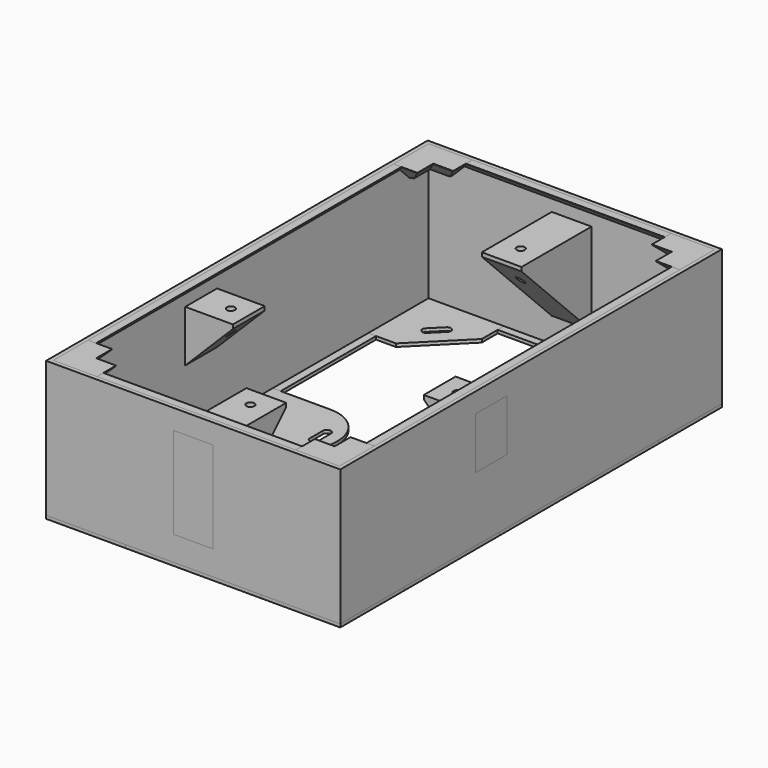
from build123d import *

# Parameters (mm, degrees)
BOX001_W                   = 72
BOX001_H                   = 118
BOX001_DEPTH               = 35
BOX_W                      = 74
BOX_H                      = 120
BOX_DEPTH                  = 35
BOX015_W                   = 68
BOX015_H                   = 114
BOX015_DEPTH               = 0.8
BOX014_W                   = 74
BOX014_H                   = 120
BOX014_DEPTH               = 0.8
BOX031_W                   = 2
BOX031_H                   = 118
BOX031_DEPTH               = 2
CHAMFER008_SIZE            = 1.9
BOX030_W                   = 72
BOX030_H                   = 2
BOX030_DEPTH               = 2
CHAMFER009_SIZE            = 1.9
BOX029_W                   = 2
BOX029_H                   = 118
BOX029_DEPTH               = 2
CHAMFER010_SIZE            = 1.9
BOX028_W                   = 72
BOX028_H                   = 2
BOX028_DEPTH               = 2
CHAMFER011_SIZE            = 1.9
BOX024_W                   = 5
BOX024_H                   = 5
BOX024_DEPTH               = 5
BOX025_W                   = 11
BOX025_H                   = 11
BOX025_DEPTH               = 5
CHAMFER004_SIZE            = 4.9
CHAMFER013_SIZE            = 0.9
BOX033_W                   = 5
BOX033_H                   = 5
BOX033_DEPTH               = 5
BOX032_W                   = 11
BOX032_H                   = 11
BOX032_DEPTH               = 5
CHAMFER012_SIZE            = 4.9
CHAMFER012_PLACEMENT_ANGLE = 90
CHAMFER014_SIZE            = 0.9
BOX034_W                   = 5
BOX034_H                   = 5
BOX034_DEPTH               = 5
BOX035_W                   = 11
BOX035_H                   = 11
BOX035_DEPTH               = 5
CHAMFER015_SIZE            = 4.9
CHAMFER016_SIZE            = 0.9
CHAMFER016_PLACEMENT_ANGLE = 180
BOX036_W                   = 5
BOX036_H                   = 5
BOX036_DEPTH               = 5
BOX037_W                   = 11
BOX037_H                   = 11
BOX037_DEPTH               = 5
CHAMFER017_SIZE            = 4.9
CHAMFER018_SIZE            = 0.9
CHAMFER018_PLACEMENT_ANGLE = -90
CYLINDER_R                 = 1
CYLINDER_DEPTH             = 40
BOX040_W                   = 10
BOX040_H                   = 23
BOX040_DEPTH               = 23
CHAMFER019_SIZE            = 22
CYLINDER003_R              = 1
CYLINDER003_DEPTH          = 40
BOX039_W                   = 13
BOX039_H                   = 10
BOX039_DEPTH               = 13
CHAMFER022_SIZE            = 12
CYLINDER002_R              = 1
CYLINDER002_DEPTH          = 40
BOX038_W                   = 13
BOX038_H                   = 10
BOX038_DEPTH               = 13
CHAMFER021_SIZE            = 12
CYLINDER001_R              = 1
CYLINDER001_DEPTH          = 40
BOX041_W                   = 10
BOX041_H                   = 23
BOX041_DEPTH               = 23
CHAMFER020_SIZE            = 22
BOX043_W                   = 2
BOX043_H                   = 6
BOX043_DEPTH               = 10
FILLET002_R                = 0.9
BOX042_W                   = 25
BOX042_H                   = 20
BOX042_DEPTH               = 0.8
FILLET_R                   = 9.5
BOX045_W                   = 6
BOX045_H                   = 2
BOX045_DEPTH               = 10
FILLET003_R                = 0.9
BOX044_W                   = 25
BOX044_H                   = 20
BOX044_DEPTH               = 0.8
FILLET001_R                = 9.5
FILLET001_PLACEMENT_ANGLE  = 180
BOX049_W                   = 2
BOX049_H                   = 6
BOX049_DEPTH               = 10
FILLET007_R                = 0.9
FILLET007_PLACEMENT_ANGLE  = 135
BOX019_W                   = 20
BOX019_H                   = 20
BOX019_DEPTH               = 0.8
CHAMFER_SIZE               = 12
BOX046_W                   = 2
BOX046_H                   = 6
BOX046_DEPTH               = 10
FILLET004_R                = 0.9
FILLET004_PLACEMENT_ANGLE  = 45
BOX018_W                   = 20
BOX018_H                   = 20
BOX018_DEPTH               = 0.8
CHAMFER001_SIZE            = 12
BOX047_W                   = 2
BOX047_H                   = 6
BOX047_DEPTH               = 10
FILLET005_R                = 0.9
FILLET005_PLACEMENT_ANGLE  = 45
BOX016_W                   = 20
BOX016_H                   = 20
BOX016_DEPTH               = 0.8
CHAMFER003_SIZE            = 12
BOX048_W                   = 2
BOX048_H                   = 6
BOX048_DEPTH               = 10
FILLET006_R                = 0.9
FILLET006_PLACEMENT_ANGLE  = 135
BOX017_W                   = 20
BOX017_H                   = 20
BOX017_DEPTH               = 0.8
CHAMFER002_SIZE            = 12


with BuildPart() as obj1:
    # Box001 → Box001 (new body)
    with BuildSketch(Plane(origin=(1, 1, 0), x_dir=(1, 0, 0), z_dir=(0, 0, 1))):
        with Locations((36, 59)):
            Rectangle(BOX001_W, BOX001_H)
    extrude(amount=BOX001_DEPTH)


with BuildPart() as cut:
    # Box → Box (new body)
    with BuildSketch(Plane.XY):
        with Locations((37, 60)):
            Rectangle(BOX_W, BOX_H)
    extrude(amount=BOX_DEPTH)

    # Cut: cut obj1
    add(obj1.part, mode=Mode.SUBTRACT)


with BuildPart() as basis002:
    # Box015 → Box015 (new body)
    with BuildSketch(Plane(origin=(3, 3, 0), x_dir=(1, 0, 0), z_dir=(0, 0, 1))):
        with Locations((34, 57)):
            Rectangle(BOX015_W, BOX015_H)
    extrude(amount=BOX015_DEPTH)


with BuildPart() as cut009:
    # Box014 → Box014 (new body)
    with BuildSketch(Plane.XY):
        with Locations((37, 60)):
            Rectangle(BOX014_W, BOX014_H)
    extrude(amount=BOX014_DEPTH)

    # Cut009: cut Basis002
    add(basis002.part, mode=Mode.SUBTRACT)


with BuildPart() as chamfer008:
    # Box031 → Box031 (new body)
    with BuildSketch(Plane(origin=(71, 1, 33), x_dir=(1, 0, 0), z_dir=(0, 0, 1))):
        with Locations((1, 59)):
            Rectangle(BOX031_W, BOX031_H)
    extrude(amount=BOX031_DEPTH)

    # Chamfer008
    chamfer008_edges = [chamfer008.edges().sort_by_distance(p)[0] for p in [
        (71, 60, 33),
    ]]
    chamfer(chamfer008_edges, length=CHAMFER008_SIZE)


with BuildPart() as chamfer009:
    # Box030 → Box030 (new body)
    with BuildSketch(Plane(origin=(1, 117, 33), x_dir=(1, 0, 0), z_dir=(0, 0, 1))):
        with Locations((36, 1)):
            Rectangle(BOX030_W, BOX030_H)
    extrude(amount=BOX030_DEPTH)

    # Chamfer009
    chamfer009_edges = [chamfer009.edges().sort_by_distance(p)[0] for p in [
        (37, 117, 33),
    ]]
    chamfer(chamfer009_edges, length=CHAMFER009_SIZE)


with BuildPart() as chamfer010:
    # Box029 → Box029 (new body)
    with BuildSketch(Plane(origin=(1, 1, 33), x_dir=(1, 0, 0), z_dir=(0, 0, 1))):
        with Locations((1, 59)):
            Rectangle(BOX029_W, BOX029_H)
    extrude(amount=BOX029_DEPTH)

    # Chamfer010
    chamfer010_edges = [chamfer010.edges().sort_by_distance(p)[0] for p in [
        (3, 60, 33),
    ]]
    chamfer(chamfer010_edges, length=CHAMFER010_SIZE)


with BuildPart() as chamfer011:
    # Box028 → Box028 (new body)
    with BuildSketch(Plane(origin=(1, 1, 33), x_dir=(1, 0, 0), z_dir=(0, 0, 1))):
        with Locations((36, 1)):
            Rectangle(BOX028_W, BOX028_H)
    extrude(amount=BOX028_DEPTH)

    # Chamfer011
    chamfer011_edges = [chamfer011.edges().sort_by_distance(p)[0] for p in [
        (37, 3, 33),
    ]]
    chamfer(chamfer011_edges, length=CHAMFER011_SIZE)


with BuildPart() as cube019:
    # Box024 → Box024 (new body)
    with BuildSketch(Plane(origin=(63, 109, 30), x_dir=(1, 0, 0), z_dir=(0, 0, 1))):
        with Locations((2.5, 2.5)):
            Rectangle(BOX024_W, BOX024_H)
    extrude(amount=BOX024_DEPTH)


with BuildPart() as chamfer013:
    # Box025 → Box025 (new body)
    with BuildSketch(Plane(origin=(63, 109, 30), x_dir=(1, 0, 0), z_dir=(0, 0, 1))):
        with Locations((5.5, 5.5)):
            Rectangle(BOX025_W, BOX025_H)
    extrude(amount=BOX025_DEPTH)

    # Cut012: cut Cube019
    add(cube019.part, mode=Mode.SUBTRACT)

    # Chamfer004
    chamfer004_edges = [chamfer013.edges().sort_by_distance(p)[0] for p in [
        (63, 117, 30),
        (65.5, 114, 30),
        (71, 109, 30),
        (68, 111.5, 30),
    ]]
    chamfer(chamfer004_edges, length=CHAMFER004_SIZE)


with BuildPart() as chamfer013_1:
    # Chamfer004 placement: moved
    add(chamfer013.part.moved(Location((-1, -1, 0))))

    # Chamfer013
    chamfer013_edges = [chamfer013_1.edges().sort_by_distance(p)[0] for p in [
        (69.4, 117.9, 30),
        (71.9, 115.4, 30),
    ]]
    chamfer(chamfer013_edges, length=CHAMFER013_SIZE)


with BuildPart() as cube028:
    # Box033 → Box033 (new body)
    with BuildSketch(Plane(origin=(63, 109, 30), x_dir=(1, 0, 0), z_dir=(0, 0, 1))):
        with Locations((2.5, 2.5)):
            Rectangle(BOX033_W, BOX033_H)
    extrude(amount=BOX033_DEPTH)


with BuildPart() as chamfer014:
    # Box032 → Box032 (new body)
    with BuildSketch(Plane(origin=(63, 109, 30), x_dir=(1, 0, 0), z_dir=(0, 0, 1))):
        with Locations((5.5, 5.5)):
            Rectangle(BOX032_W, BOX032_H)
    extrude(amount=BOX032_DEPTH)

    # Cut013: cut Cube028
    add(cube028.part, mode=Mode.SUBTRACT)

    # Chamfer012
    chamfer012_edges = [chamfer014.edges().sort_by_distance(p)[0] for p in [
        (63, 117, 30),
        (65.5, 114, 30),
        (71, 109, 30),
        (68, 111.5, 30),
    ]]
    chamfer(chamfer012_edges, length=CHAMFER012_SIZE)


with BuildPart() as chamfer014_1:
    # Chamfer012 placement: moved
    add(chamfer014.part.moved(Location((121, 45, 0))).rotate(Axis((121, 45, 0), (0, 0, 1)), CHAMFER012_PLACEMENT_ANGLE))

    # Chamfer014
    chamfer014_edges = [chamfer014_1.edges().sort_by_distance(p)[0] for p in [
        (2.1, 115.4, 30),
        (4.6, 117.9, 30),
    ]]
    chamfer(chamfer014_edges, length=CHAMFER014_SIZE)


with BuildPart() as cube029:
    # Box034 → Box034 (new body)
    with BuildSketch(Plane(origin=(63, 109, 30), x_dir=(1, 0, 0), z_dir=(0, 0, 1))):
        with Locations((2.5, 2.5)):
            Rectangle(BOX034_W, BOX034_H)
    extrude(amount=BOX034_DEPTH)


with BuildPart() as chamfer016:
    # Box035 → Box035 (new body)
    with BuildSketch(Plane(origin=(63, 109, 30), x_dir=(1, 0, 0), z_dir=(0, 0, 1))):
        with Locations((5.5, 5.5)):
            Rectangle(BOX035_W, BOX035_H)
    extrude(amount=BOX035_DEPTH)

    # Cut014: cut Cube029
    add(cube029.part, mode=Mode.SUBTRACT)

    # Chamfer015
    chamfer015_edges = [chamfer016.edges().sort_by_distance(p)[0] for p in [
        (63, 117, 30),
        (65.5, 114, 30),
        (71, 109, 30),
        (68, 111.5, 30),
    ]]
    chamfer(chamfer015_edges, length=CHAMFER015_SIZE)


with BuildPart() as chamfer016_1:
    # Chamfer015 placement: moved
    add(chamfer016.part.moved(Location((-1, -1, 0))))

    # Chamfer016
    chamfer016_edges = [chamfer016_1.edges().sort_by_distance(p)[0] for p in [
        (69.4, 117.9, 30),
        (71.9, 115.4, 30),
    ]]
    chamfer(chamfer016_edges, length=CHAMFER016_SIZE)


with BuildPart() as chamfer016_2:
    # Chamfer016 placement: moved
    add(chamfer016_1.part.moved(Location((74, 120, 0))).rotate(Axis((74, 120, 0), (0, 0, 1)), CHAMFER016_PLACEMENT_ANGLE))


with BuildPart() as cube031:
    # Box036 → Box036 (new body)
    with BuildSketch(Plane(origin=(63, 109, 30), x_dir=(1, 0, 0), z_dir=(0, 0, 1))):
        with Locations((2.5, 2.5)):
            Rectangle(BOX036_W, BOX036_H)
    extrude(amount=BOX036_DEPTH)


with BuildPart() as chamfer018:
    # Box037 → Box037 (new body)
    with BuildSketch(Plane(origin=(63, 109, 30), x_dir=(1, 0, 0), z_dir=(0, 0, 1))):
        with Locations((5.5, 5.5)):
            Rectangle(BOX037_W, BOX037_H)
    extrude(amount=BOX037_DEPTH)

    # Cut015: cut Cube031
    add(cube031.part, mode=Mode.SUBTRACT)

    # Chamfer017
    chamfer017_edges = [chamfer018.edges().sort_by_distance(p)[0] for p in [
        (63, 117, 30),
        (65.5, 114, 30),
        (71, 109, 30),
        (68, 111.5, 30),
    ]]
    chamfer(chamfer017_edges, length=CHAMFER017_SIZE)


with BuildPart() as chamfer018_1:
    # Chamfer017 placement: moved
    add(chamfer018.part.moved(Location((-1, -1, 0))))

    # Chamfer018
    chamfer018_edges = [chamfer018_1.edges().sort_by_distance(p)[0] for p in [
        (69.4, 117.9, 30),
        (71.9, 115.4, 30),
    ]]
    chamfer(chamfer018_edges, length=CHAMFER018_SIZE)


with BuildPart() as chamfer018_2:
    # Chamfer018 placement: moved
    add(chamfer018_1.part.moved(Location((-46, 74, 0))).rotate(Axis((-46, 74, 0), (0, 0, 1)), CHAMFER018_PLACEMENT_ANGLE))


with BuildPart() as cylinder:
    # Cylinder → Cylinder (new body)
    with BuildSketch(Plane(origin=(37, 18, 0), x_dir=(1, 0, 0), z_dir=(0, 0, 1))):
        Circle(CYLINDER_R)
    extrude(amount=CYLINDER_DEPTH)


with BuildPart() as cut016:
    # Box040 → Box040 (new body)
    with BuildSketch(Plane(origin=(32, 0, 7), x_dir=(1, 0, 0), z_dir=(0, 0, 1))):
        with Locations((5, 11.5)):
            Rectangle(BOX040_W, BOX040_H)
    extrude(amount=BOX040_DEPTH)

    # Chamfer019
    chamfer019_edges = [cut016.edges().sort_by_distance(p)[0] for p in [
        (37, 23, 7),
    ]]
    chamfer(chamfer019_edges, length=CHAMFER019_SIZE)

    # Cut016: cut Cylinder
    add(cylinder.part, mode=Mode.SUBTRACT)


with BuildPart() as cylinder003:
    # Cylinder003 → Cylinder003 (new body)
    with BuildSketch(Plane(origin=(65.5, 47.5, 0), x_dir=(1, 0, 0), z_dir=(0, 0, 1))):
        Circle(CYLINDER003_R)
    extrude(amount=CYLINDER003_DEPTH)


with BuildPart() as cut017:
    # Box039 → Box039 (new body)
    with BuildSketch(Plane(origin=(61, 42.5, 17), x_dir=(1, 0, 0), z_dir=(0, 0, 1))):
        with Locations((6.5, 5)):
            Rectangle(BOX039_W, BOX039_H)
    extrude(amount=BOX039_DEPTH)

    # Chamfer022
    chamfer022_edges = [cut017.edges().sort_by_distance(p)[0] for p in [
        (61, 47.5, 17),
    ]]
    chamfer(chamfer022_edges, length=CHAMFER022_SIZE)

    # Cut017: cut Cylinder003
    add(cylinder003.part, mode=Mode.SUBTRACT)


with BuildPart() as cylinder002:
    # Cylinder002 → Cylinder002 (new body)
    with BuildSketch(Plane(origin=(8.5, 47.5, 0), x_dir=(1, 0, 0), z_dir=(0, 0, 1))):
        Circle(CYLINDER002_R)
    extrude(amount=CYLINDER002_DEPTH)


with BuildPart() as cut018:
    # Box038 → Box038 (new body)
    with BuildSketch(Plane(origin=(0, 42.5, 17), x_dir=(1, 0, 0), z_dir=(0, 0, 1))):
        with Locations((6.5, 5)):
            Rectangle(BOX038_W, BOX038_H)
    extrude(amount=BOX038_DEPTH)

    # Chamfer021
    chamfer021_edges = [cut018.edges().sort_by_distance(p)[0] for p in [
        (13, 47.5, 17),
    ]]
    chamfer(chamfer021_edges, length=CHAMFER021_SIZE)

    # Cut018: cut Cylinder002
    add(cylinder002.part, mode=Mode.SUBTRACT)


with BuildPart() as cylinder001:
    # Cylinder001 → Cylinder001 (new body)
    with BuildSketch(Plane(origin=(37, 103, 0), x_dir=(1, 0, 0), z_dir=(0, 0, 1))):
        Circle(CYLINDER001_R)
    extrude(amount=CYLINDER001_DEPTH)


with BuildPart() as cut019:
    # Box041 → Box041 (new body)
    with BuildSketch(Plane(origin=(32, 97, 7), x_dir=(1, 0, 0), z_dir=(0, 0, 1))):
        with Locations((5, 11.5)):
            Rectangle(BOX041_W, BOX041_H)
    extrude(amount=BOX041_DEPTH)

    # Chamfer020
    chamfer020_edges = [cut019.edges().sort_by_distance(p)[0] for p in [
        (37, 97, 7),
    ]]
    chamfer(chamfer020_edges, length=CHAMFER020_SIZE)

    # Cut019: cut Cylinder001
    add(cylinder001.part, mode=Mode.SUBTRACT)


with BuildPart() as fillet002:
    # Box043 → Box043 (new body)
    with BuildSketch(Plane(origin=(20, 57, 0), x_dir=(1, 0, 0), z_dir=(0, 0, 1))):
        with Locations((1, 3)):
            Rectangle(BOX043_W, BOX043_H)
    extrude(amount=BOX043_DEPTH)

    # Fillet002
    fillet002_edges = [fillet002.edges().sort_by_distance(p)[0] for p in [
        (20, 57, 5),
        (20, 63, 5),
        (22, 57, 5),
        (22, 63, 5),
    ]]
    fillet(fillet002_edges, radius=FILLET002_R)


with BuildPart() as cut020:
    # Box042 → Box042 (new body)
    with BuildSketch(Plane(origin=(0, 50, 0), x_dir=(1, 0, 0), z_dir=(0, 0, 1))):
        with Locations((12.5, 10)):
            Rectangle(BOX042_W, BOX042_H)
    extrude(amount=BOX042_DEPTH)

    # Fillet
    fillet_edges = [cut020.edges().sort_by_distance(p)[0] for p in [
        (25, 50, 0.4),
        (25, 70, 0.4),
    ]]
    fillet(fillet_edges, radius=FILLET_R)

    # Cut020: cut Fillet002
    add(fillet002.part, mode=Mode.SUBTRACT)


with BuildPart() as fillet003:
    # Box045 → Box045 (new body)
    with BuildSketch(Plane(origin=(52, 59, 0), x_dir=(1, 0, 0), z_dir=(0, 0, 1))):
        with Locations((3, 1)):
            Rectangle(BOX045_W, BOX045_H)
    extrude(amount=BOX045_DEPTH)

    # Fillet003
    fillet003_edges = [fillet003.edges().sort_by_distance(p)[0] for p in [
        (52, 59, 5),
        (52, 61, 5),
        (58, 59, 5),
        (58, 61, 5),
    ]]
    fillet(fillet003_edges, radius=FILLET003_R)


with BuildPart() as cut021:
    # Box044 → Box044 (new body)
    with BuildSketch(Plane(origin=(0, 50, 0), x_dir=(1, 0, 0), z_dir=(0, 0, 1))):
        with Locations((12.5, 10)):
            Rectangle(BOX044_W, BOX044_H)
    extrude(amount=BOX044_DEPTH)

    # Fillet001
    fillet001_edges = [cut021.edges().sort_by_distance(p)[0] for p in [
        (25, 50, 0.4),
        (25, 70, 0.4),
    ]]
    fillet(fillet001_edges, radius=FILLET001_R)


with BuildPart() as cut021_1:
    # Fillet001 placement: moved
    add(cut021.part.moved(Location((74, 120, 0))).rotate(Axis((74, 120, 0), (0, 0, 1)), FILLET001_PLACEMENT_ANGLE))

    # Cut021: cut Fillet003
    add(fillet003.part, mode=Mode.SUBTRACT)


with BuildPart() as fillet007:
    # Box049 → Box049 (new body)
    with BuildSketch(Plane(origin=(20, 57, 0), x_dir=(1, 0, 0), z_dir=(0, 0, 1))):
        with Locations((1, 3)):
            Rectangle(BOX049_W, BOX049_H)
    extrude(amount=BOX049_DEPTH)

    # Fillet007
    fillet007_edges = [fillet007.edges().sort_by_distance(p)[0] for p in [
        (20, 57, 5),
        (20, 63, 5),
        (22, 57, 5),
        (22, 63, 5),
    ]]
    fillet(fillet007_edges, radius=FILLET007_R)


with BuildPart() as fillet007_1:
    # Fillet007 placement: moved
    add(fillet007.part.moved(Location((68, 137, 0))).rotate(Axis((68, 137, 0), (0, 0, 1)), FILLET007_PLACEMENT_ANGLE))


with BuildPart() as cut022:
    # Box019 → Box019 (new body)
    with BuildSketch(Plane(origin=(0, 100, 0), x_dir=(1, 0, 0), z_dir=(0, 0, 1))):
        with Locations((10, 10)):
            Rectangle(BOX019_W, BOX019_H)
    extrude(amount=BOX019_DEPTH)

    # Chamfer
    chamfer_edges = [cut022.edges().sort_by_distance(p)[0] for p in [
        (20, 100, 0.4),
    ]]
    chamfer(chamfer_edges, length=CHAMFER_SIZE)

    # Cut022: cut Fillet007
    add(fillet007_1.part, mode=Mode.SUBTRACT)


with BuildPart() as fillet004:
    # Box046 → Box046 (new body)
    with BuildSketch(Plane(origin=(20, 57, 0), x_dir=(1, 0, 0), z_dir=(0, 0, 1))):
        with Locations((1, 3)):
            Rectangle(BOX046_W, BOX046_H)
    extrude(amount=BOX046_DEPTH)

    # Fillet004
    fillet004_edges = [fillet004.edges().sort_by_distance(p)[0] for p in [
        (20, 57, 5),
        (20, 63, 5),
        (22, 57, 5),
        (22, 63, 5),
    ]]
    fillet(fillet004_edges, radius=FILLET004_R)


with BuildPart() as fillet004_1:
    # Fillet004 placement: moved
    add(fillet004.part.moved(Location((91, 52, 0))).rotate(Axis((91, 52, 0), (0, 0, 1)), FILLET004_PLACEMENT_ANGLE))


with BuildPart() as cut023:
    # Box018 → Box018 (new body)
    with BuildSketch(Plane(origin=(54, 100, 0), x_dir=(1, 0, 0), z_dir=(0, 0, 1))):
        with Locations((10, 10)):
            Rectangle(BOX018_W, BOX018_H)
    extrude(amount=BOX018_DEPTH)

    # Chamfer001
    chamfer001_edges = [cut023.edges().sort_by_distance(p)[0] for p in [
        (54, 100, 0.4),
    ]]
    chamfer(chamfer001_edges, length=CHAMFER001_SIZE)

    # Cut023: cut Fillet004
    add(fillet004_1.part, mode=Mode.SUBTRACT)


with BuildPart() as fillet005:
    # Box047 → Box047 (new body)
    with BuildSketch(Plane(origin=(20, 57, 0), x_dir=(1, 0, 0), z_dir=(0, 0, 1))):
        with Locations((1, 3)):
            Rectangle(BOX047_W, BOX047_H)
    extrude(amount=BOX047_DEPTH)

    # Fillet005
    fillet005_edges = [fillet005.edges().sort_by_distance(p)[0] for p in [
        (20, 57, 5),
        (20, 63, 5),
        (22, 57, 5),
        (22, 63, 5),
    ]]
    fillet(fillet005_edges, radius=FILLET005_R)


with BuildPart() as fillet005_1:
    # Fillet005 placement: moved
    add(fillet005.part.moved(Location((38, -47, 0))).rotate(Axis((38, -47, 0), (0, 0, 1)), FILLET005_PLACEMENT_ANGLE))


with BuildPart() as cut024:
    # Box016 → Box016 (new body)
    with BuildSketch(Plane.XY):
        with Locations((10, 10)):
            Rectangle(BOX016_W, BOX016_H)
    extrude(amount=BOX016_DEPTH)

    # Chamfer003
    chamfer003_edges = [cut024.edges().sort_by_distance(p)[0] for p in [
        (20, 20, 0.4),
    ]]
    chamfer(chamfer003_edges, length=CHAMFER003_SIZE)

    # Cut024: cut Fillet005
    add(fillet005_1.part, mode=Mode.SUBTRACT)


with BuildPart() as fillet006:
    # Box048 → Box048 (new body)
    with BuildSketch(Plane(origin=(20, 57, 0), x_dir=(1, 0, 0), z_dir=(0, 0, 1))):
        with Locations((1, 3)):
            Rectangle(BOX048_W, BOX048_H)
    extrude(amount=BOX048_DEPTH)

    # Fillet006
    fillet006_edges = [fillet006.edges().sort_by_distance(p)[0] for p in [
        (20, 57, 5),
        (20, 63, 5),
        (22, 57, 5),
        (22, 63, 5),
    ]]
    fillet(fillet006_edges, radius=FILLET006_R)


with BuildPart() as fillet006_1:
    # Fillet006 placement: moved
    add(fillet006.part.moved(Location((121, 38, 0))).rotate(Axis((121, 38, 0), (0, 0, 1)), FILLET006_PLACEMENT_ANGLE))


with BuildPart() as cut025:
    # Box017 → Box017 (new body)
    with BuildSketch(Plane(origin=(54, 0, 0), x_dir=(1, 0, 0), z_dir=(0, 0, 1))):
        with Locations((10, 10)):
            Rectangle(BOX017_W, BOX017_H)
    extrude(amount=BOX017_DEPTH)

    # Chamfer002
    chamfer002_edges = [cut025.edges().sort_by_distance(p)[0] for p in [
        (54, 20, 0.4),
    ]]
    chamfer(chamfer002_edges, length=CHAMFER002_SIZE)

    # Cut025: cut Fillet006
    add(fillet006_1.part, mode=Mode.SUBTRACT)


solid = Compound([cut.part, cut009.part, chamfer008.part, chamfer009.part, chamfer010.part, chamfer011.part, chamfer013_1.part, chamfer014_1.part, chamfer016_2.part, chamfer018_2.part, cut016.part, cut017.part, cut018.part, cut019.part, cut020.part, cut021_1.part, cut022.part, cut023.part, cut024.part, cut025.part])
